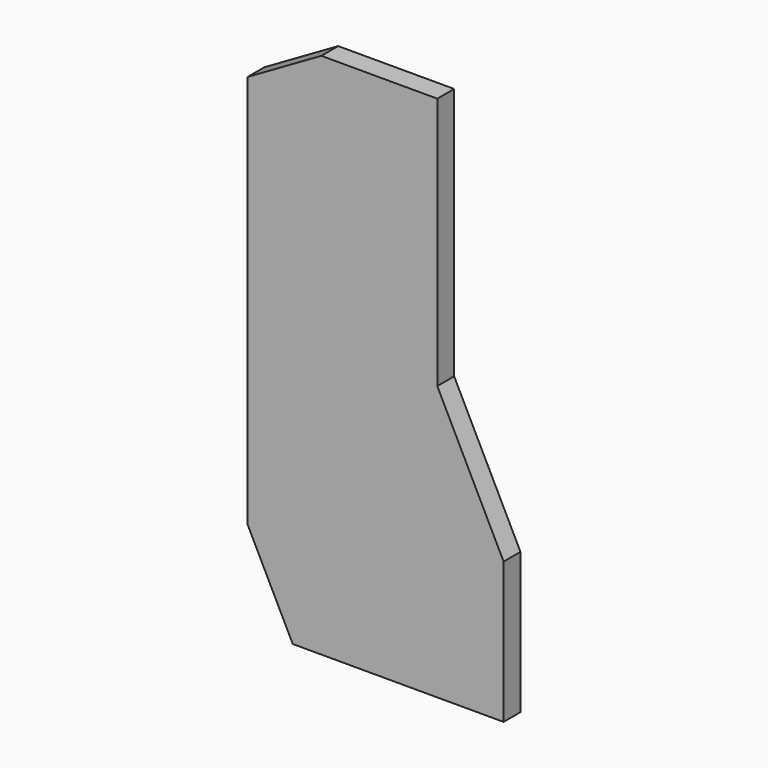
from build123d import *

# Parameters (mm, degrees)
PAD_DEPTH = 10


with BuildPart() as part:
    # Sketch → Pad (new body)
    with BuildSketch(Plane.XZ):
        Polygon((0, 0), (100, 0), (100, 66.943107), (68.560987, 130), (68.560987, 250), (13.560987, 250), (-21.439013, 229.792745), (-21.439013, 43), align=None)
    extrude(amount=PAD_DEPTH)


solid = part.part
